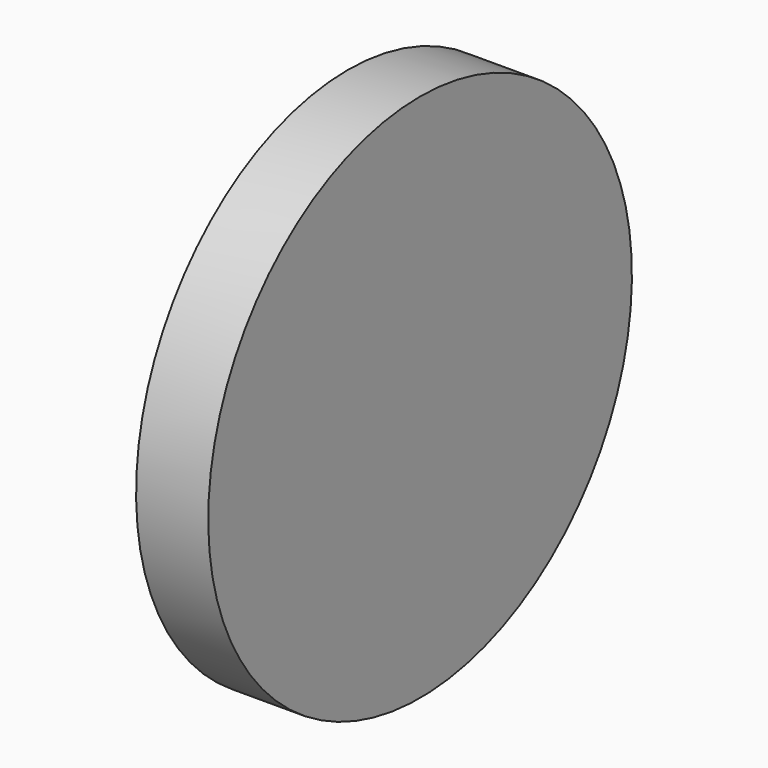
from build123d import *

# Parameters (mm, degrees)
F0_W     = 8
F0_H     = 23.85
F2_SIZE2 = 1.5
F2_SIZE  = 5


with BuildPart() as f1:
    # F0 (on Front) → F1 (revolve)
    with BuildSketch(Plane.XZ):
        with Locations((-4, 11.925)):
            Rectangle(F0_W, F0_H)
    revolve(axis=Axis((-4, 0, 0), (-1, 0, 0)))

    # F2
    f2_edges = [f1.edges().sort_by_distance(p)[0] for p in [
        (-8, 0, -23.85),
    ]]
    f2_side = f1.faces().sort_by_distance((-8, 0, 0))[0]
    chamfer(f2_edges, length=F2_SIZE, length2=F2_SIZE2, reference=f2_side)


solid = f1.part
